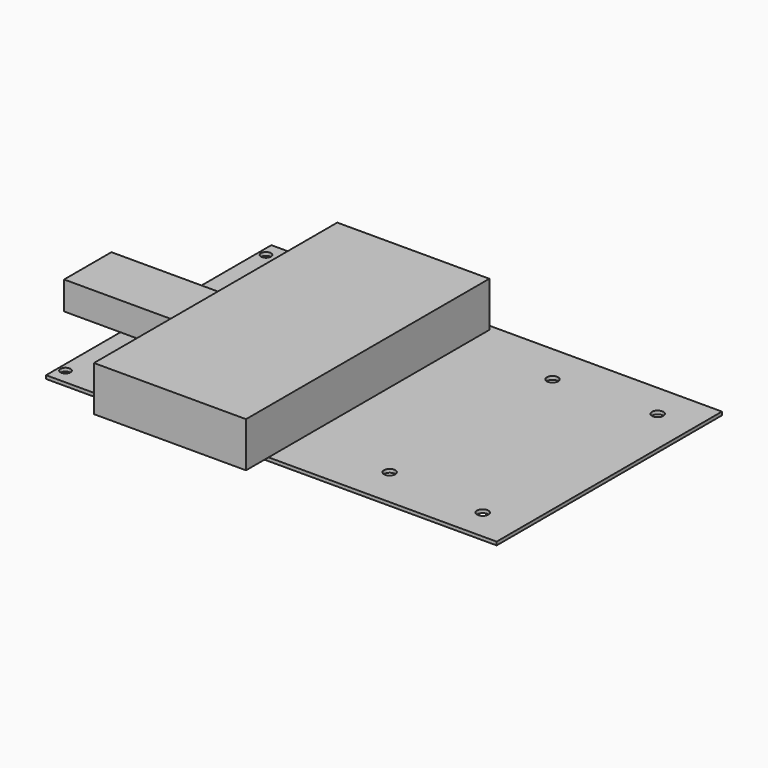
from build123d import *

# Parameters (mm, degrees)
F1_W     = 160
F1_H     = 100
F1_R     = 1.75
F1_R_2   = 2
F2_DEPTH = 0.6
F3_W     = 54
F3_H     = 108
F4_DEPTH = 16
F5_W     = 40
F5_H     = 21
F6_DEPTH = 10


with BuildPart() as f2:
    # F1 (on Top) → F2 (new body, symmetric)
    with BuildSketch(Plane.XY):
        Rectangle(F1_W, F1_H)
        with Locations((-77.5, -44.5)):
            Circle(F1_R, mode=Mode.SUBTRACT)
        with Locations((30.8, -36)):
            Circle(F1_R_2, mode=Mode.SUBTRACT)
        with Locations((66.1, -38.8)):
            Circle(F1_R_2, mode=Mode.SUBTRACT)
        with Locations((-77.5, 44.5)):
            Circle(F1_R, mode=Mode.SUBTRACT)
        with Locations((31.2, 35.8)):
            Circle(F1_R_2, mode=Mode.SUBTRACT)
        with Locations((66.95, 37.8)):
            Circle(F1_R_2, mode=Mode.SUBTRACT)
    extrude(amount=F2_DEPTH, both=True)

    # F3 (on face) → F4 (join)
    with BuildSketch(Plane.XY.offset(0.6)):
        with Locations((-28, -6)):
            Rectangle(F3_W, F3_H)
    extrude(amount=F4_DEPTH)

    # F5 (on face) → F6 (join)
    with BuildSketch(Plane.XY.offset(0.6)):
        with Locations((-80, -6.5)):
            Rectangle(F5_W, F5_H)
    extrude(amount=F6_DEPTH)


solid = f2.part
